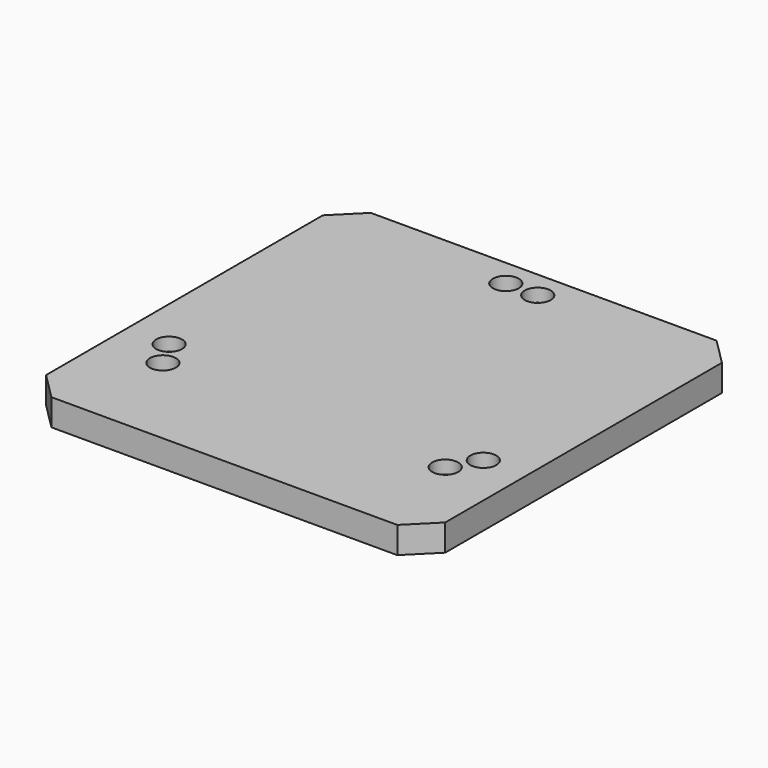
from build123d import *

# Parameters (mm, degrees)
F0_W           = 150
F0_H           = 150
F1_DEPTH       = 10
F3_D           = 4.2
F3_DEPTH       = 15.8
F3_CBORE_D     = 9.75
F3_CBORE_DEPTH = 5
F3_TIP         = 1.2618073
F4_SIZE        = 10


with BuildPart() as f1:
    # F0 (on Top) → F1 (new body)
    with BuildSketch(Plane.XY):
        Rectangle(F0_W, F0_H)
    extrude(amount=F1_DEPTH)

    # F3
    with Locations(Plane.XY.offset(10)):
        with Locations((-6, 64.7224845011), (6, 64.7224845011), (-59.051315774, -27.1650898279), (-53.051315774, -37.5573946733), (53.051315774, -37.5573946733), (59.051315774, -27.1650898279)):
            CounterBoreHole(F3_D / 2, F3_CBORE_D / 2, F3_CBORE_DEPTH, depth=F3_DEPTH)
            with Locations((0, 0, -(F3_DEPTH + F3_TIP / 2))):  # 118° drill point
                Cone(0, F3_D / 2, F3_TIP, mode=Mode.SUBTRACT)

    # F4
    f4_edges = [f1.edges().sort_by_distance(p)[0] for p in [
        (-75, 75, 5),
        (75, 75, 5),
        (75, -75, 5),
        (-75, -75, 5),
    ]]
    chamfer(f4_edges, length=F4_SIZE)


solid = f1.part
